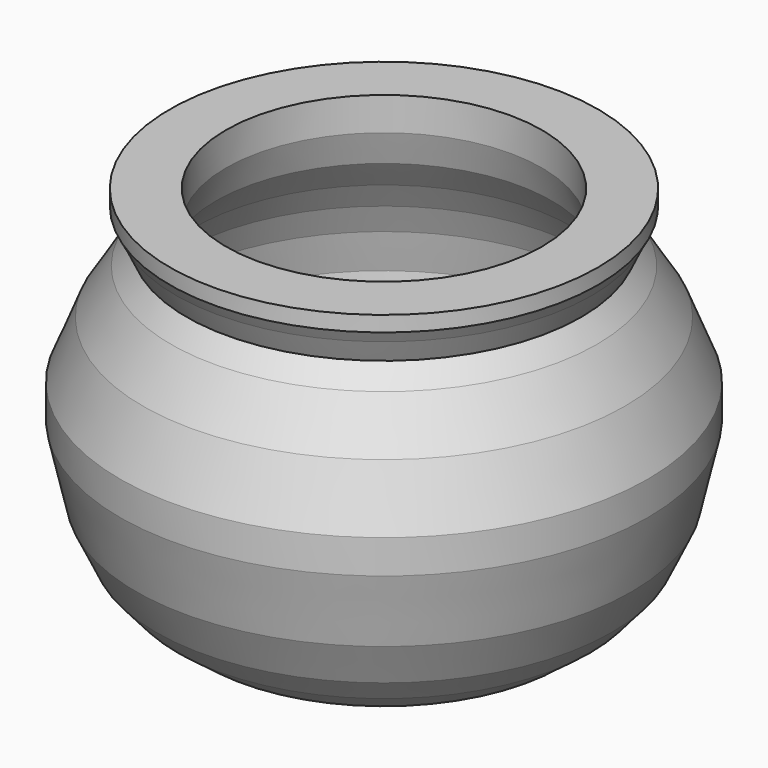
from build123d import *


with BuildPart() as f1:
    # F0 (on Front) → F1 (revolve)
    with BuildSketch(Plane.XZ):
        Polygon((32.997765, -58.68737), (0, -58.68737), (0, -63.38454), (35.790909, -63.38454), (41.541401, -59.033737), (45.928676, -53.953737), (49.969584, -45.4101), (53.202312, -31.209191), (53.202312, -24.397373), (48.58413, -12.967372), (42.926855, -3.846464), (39.809585, 0), (41.887764, 4.466263), (43.157764, 6.775354), (43.157764, 9.892628), (31.843219, 9.892628), (31.843219, 3.196263), (33.805948, -3.269191), (37.96231, -9.272828), (40.96413, -14.583737), (43.157764, -20.241009), (44.658676, -27.976464), (43.388676, -38.713738), (37.96231, -52.106466), align=None)
    revolve(axis=Axis((0, 0, -31.69227), (0, 0, -1)))


solid = f1.part
